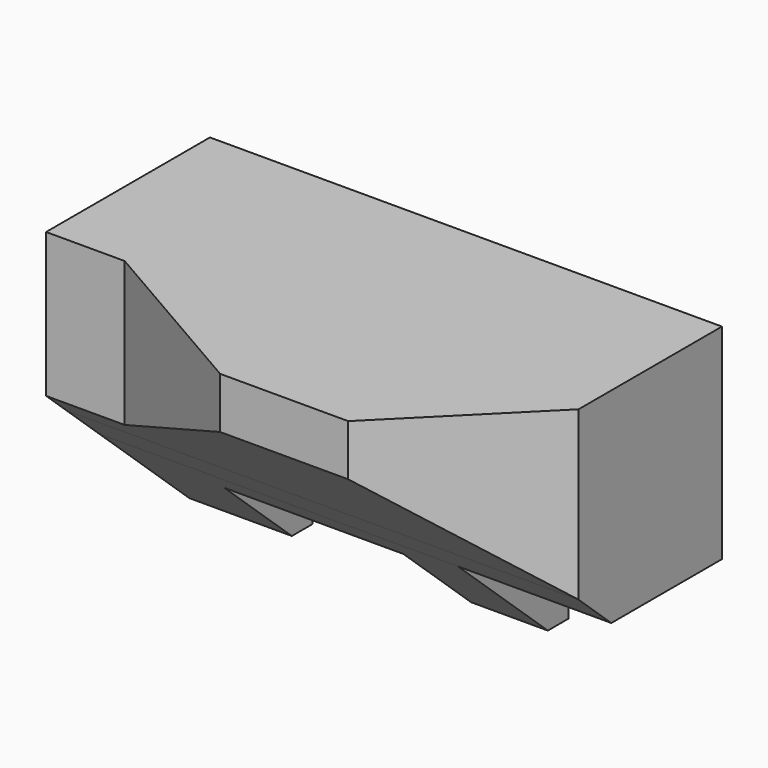
from build123d import *

# Parameters (mm, degrees)
F1_DEPTH = 60
F3_DEPTH = 60.001
F5_DEPTH = 100.001


with BuildPart() as f1:
    # F0 (on Front) → F1 (new body)
    with BuildSketch(Plane.XZ):
        Polygon((68.4196182877, 52.7130502019), (-31.5803817123, 52.7130502019), (-31.5803817123, -7.2869497981), (-11.5803817123, -7.2869497981), (-11.5803817123, 7.7130502019), (23.4196182877, 7.7130502019), (23.4196182877, -7.2869497981), (38.4196182877, -7.2869497981), (38.4196182877, 12.7130502019), (68.4196182877, 12.7130502019), align=None)
    extrude(amount=F1_DEPTH)

    # F2 (on face) → F3 (cut, through all)
    with BuildSketch(Plane(origin=(0, 0, -7.2869497981), x_dir=(1, 0, 0), z_dir=(0, 0, -1))):
        Polygon((68.4196182877, 60), (43.4196182877, 60), (68.4196182877, 35), align=None)
        Polygon((18.4196182877, 60), (-31.5803817123, 60), (-31.5803817123, 40), (-16.2213978636, 40), align=None)
    extrude(amount=-F3_DEPTH, mode=Mode.SUBTRACT)

    # F4 (on face) → F5 (cut, through all)
    with BuildSketch(Plane.YZ.offset(68.4196182877)):
        Polygon((-60, 42.7130502019), (-60, -7.2869497981), (-5, -7.2869497981), (-27, 12.7130502019), (-35, 12.7130502019), (-35, 19.9857774746), align=None)
        Polygon((-35, 12.7130502019), (-27, 12.7130502019), (-35, 19.9857774746), align=None)
    extrude(amount=-F5_DEPTH, mode=Mode.SUBTRACT)


solid = f1.part
